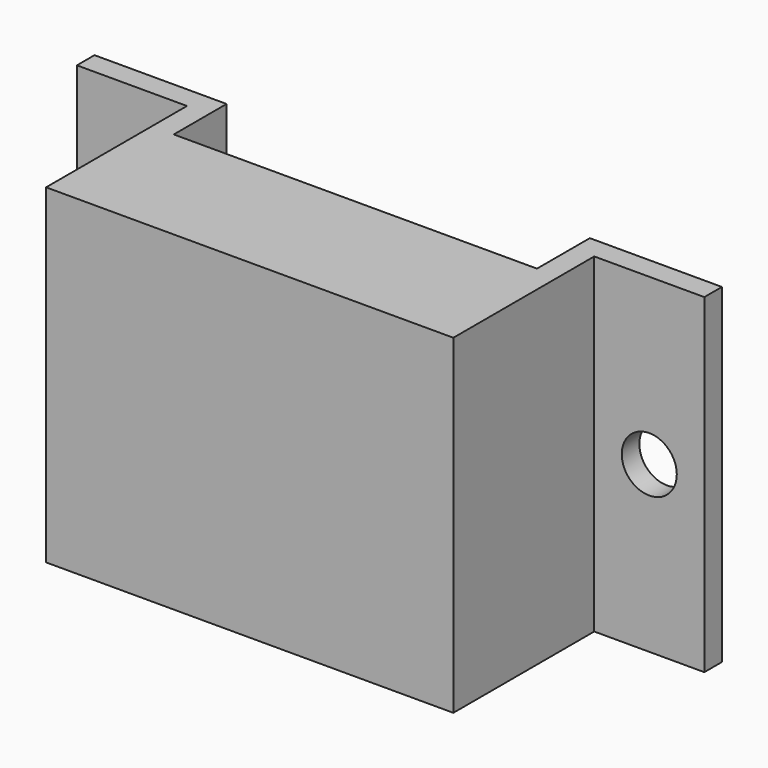
from build123d import *

# Parameters (mm, degrees)
F1_DEPTH = 30
F2_R     = 2.5
F3_DEPTH = 25
F4_R     = 2.5
F5_DEPTH = 25
F6_W     = 33
F6_H     = 10
F7_DEPTH = 2
F8_W     = 33
F8_H     = 10
F9_DEPTH = 2


with BuildPart() as f1:
    # F0 (on Top) → F1 (new body)
    with BuildSketch(Plane.XY):
        Polygon((0, 16), (0, 0), (-33, 0), (-33, 16), (-45, 16), (-45, 14), (-35, 14), (-35, -2), (2, -2), (2, 14), (12, 14), (12, 16), align=None)
    extrude(amount=F1_DEPTH)

    # F2 (on face) → F3 (cut)
    with BuildSketch(Plane.XZ.offset(-14)):
        with Locations((-40, 15)):
            Circle(F2_R)
    extrude(amount=-F3_DEPTH, mode=Mode.SUBTRACT)

    # F4 (on face) → F5 (cut)
    with BuildSketch(Plane.XZ.offset(-14)):
        with Locations((7, 15)):
            Circle(F4_R)
    extrude(amount=-F5_DEPTH, mode=Mode.SUBTRACT)

    # F6 (on face) → F7 (join)
    with BuildSketch(Plane(origin=(0, 0, 0), x_dir=(1, 0, 0), z_dir=(0, 0, -1))):
        with Locations((-16.5, -5)):
            Rectangle(F6_W, F6_H)
    extrude(amount=-F7_DEPTH)

    # F8 (on face) → F9 (join)
    with BuildSketch(Plane.XY.offset(30)):
        with Locations((-16.5, 5)):
            Rectangle(F8_W, F8_H)
    extrude(amount=-F9_DEPTH)


solid = f1.part
